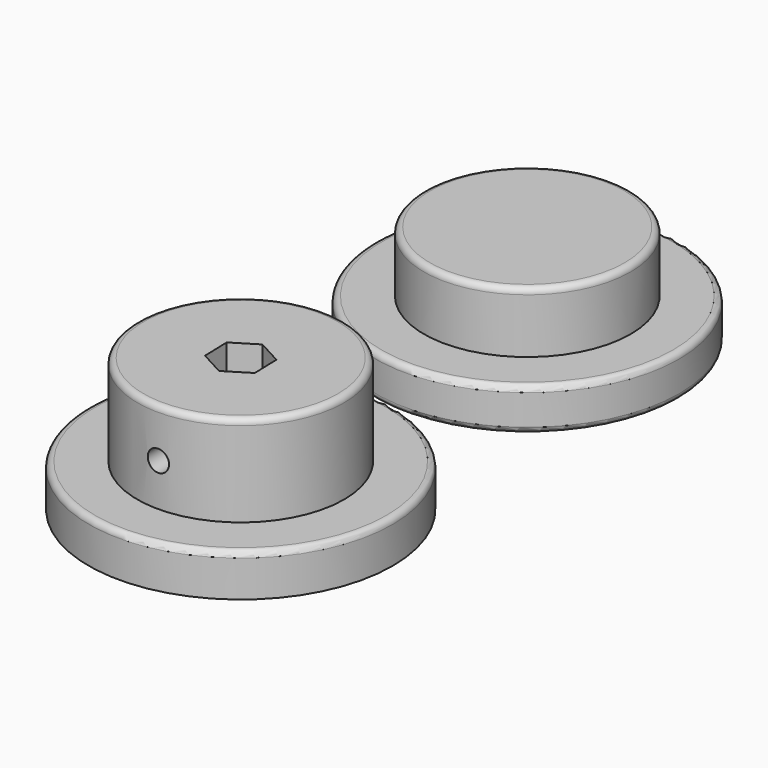
from build123d import *

# Parameters (mm, degrees)
F0_R           = 25
F2_DEPTH       = 7
F1_R           = 25
F3_R           = 17
F4_DEPTH       = 15
F6_DEPTH       = 10
F7_R           = 2.75
F8_DEPTH       = 25
F9_R           = 1
F10_R          = 1.75
F11_DEPTH      = 25
F11_DEPTH_BACK = 25
F12_R          = 17
F13_DEPTH      = 10
F14_R          = 1


with BuildPart() as f2:
    # F0 (on Top) → F2 (new body)
    with BuildSketch(Plane.XY):
        Circle(F0_R)
    extrude(amount=F2_DEPTH)

    # F3 (on face) → F4 (join)
    with BuildSketch(Plane.XY.offset(7)):
        Circle(F3_R)
    extrude(amount=F4_DEPTH)

    # F5 (on face) → F6 (cut)
    with BuildSketch(Plane.XY.offset(22)):
        Polygon((-0.1320335268, 4.6169146062), (-4.0643820995, 2.1941129147), (-3.9323485727, -2.4228016915), (0.1320335268, -4.6169146062), (4.0643820995, -2.1941129147), (3.9323485727, 2.4228016915), align=None)
    extrude(amount=-F6_DEPTH, mode=Mode.SUBTRACT)

    # F7 (on face) → F8 (cut)
    with BuildSketch(Plane.XY.offset(12)):
        Circle(F7_R)
    extrude(amount=-F8_DEPTH, mode=Mode.SUBTRACT)

    # F9
    f9_edges = [f2.edges().sort_by_distance(p)[0] for p in [
        (-25, 0, 7),
        (-17, 0, 22),
    ]]
    fillet(f9_edges, radius=F9_R)

    # F10 (on Front) → F11 (cut, two sides)
    with BuildSketch(Plane.XZ) as f11_sk:
        with Locations((0, 14)):
            Circle(F10_R)
    extrude(amount=-F11_DEPTH, mode=Mode.SUBTRACT)
    extrude(f11_sk.sketch, amount=F11_DEPTH_BACK, mode=Mode.SUBTRACT)


with BuildPart() as f2b:
    # F1 (on Top) → F2, piece 2 (new body)
    with BuildSketch(Plane.XY):
        with Locations((0, 58.8988291364)):
            Circle(F1_R)
    extrude(amount=F2_DEPTH)

    # F12 (on face) → F13 (join)
    with BuildSketch(Plane.XY.offset(7)):
        with Locations((0, 58.8988291364)):
            Circle(F12_R)
    extrude(amount=F13_DEPTH)

    # F14
    f14_edges = [f2b.edges().sort_by_distance(p)[0] for p in [
        (-17, 58.898829, 17),
        (-25, 58.898829, 7),
        (-25, 58.898829, 0),
    ]]
    fillet(f14_edges, radius=F14_R)


solid = Compound([f2.part, f2b.part])
